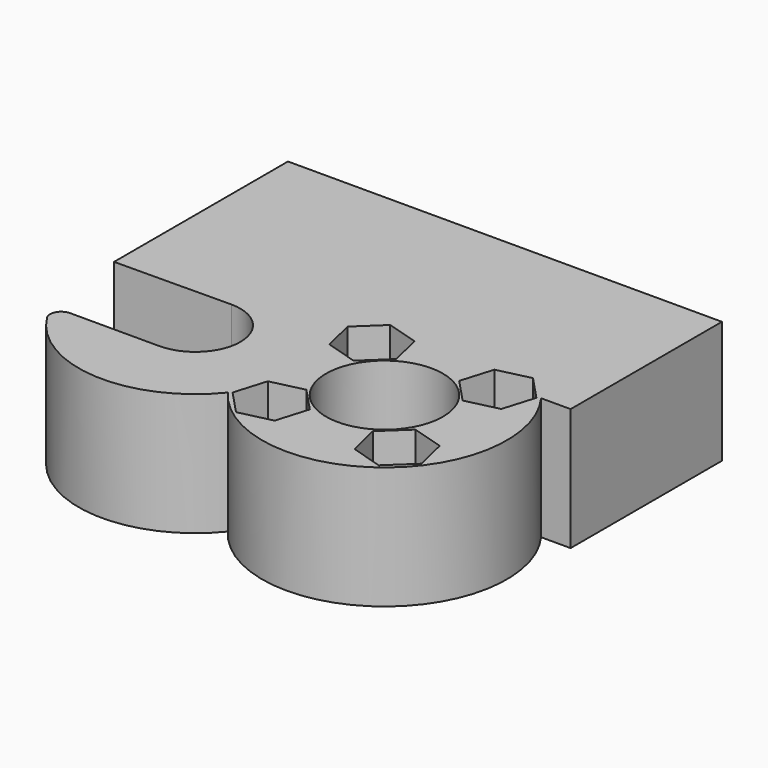
from build123d import *

# Parameters (mm, degrees)
F0_R     = 1.8
F0_R_2   = 5.25
F1_DEPTH = 8
F2_R     = 5.25
F3_DEPTH = 3


with BuildPart() as f1:
    # F0 (on Top) → F1 (new body)
    with BuildSketch(Plane.XY):
        with BuildLine():
            Line((26.1231140105, 19.538577646), (-12.8768859895, 19.538577646))
            Line((-12.8768859895, 19.538577646), (-12.8768859895, 0))
            Line((-12.8768859895, 0), (-2.4018859895, 0.088577646))
            ThreePointArc((-2.4018859895, 0.088577646), (1.6481140105, -3.961422354), (-2.4018859895, -8.011422354))
            Line((-2.4018859895, -8.011422354), (-10.4189381286, -8.011422354))
            ThreePointArc((-10.4189381286, -8.011422354), (-11.2944327118, -8.5281944214), (-11.2650650034, -9.5444038843))
            ThreePointArc((-11.2650650034, -9.5444038843), (-3.0003647918, -14.4193116307), (5.7665147457, -10.5190785227))
            ThreePointArc((5.7665147457, -10.5190785227), (21.1269767102, -12.8143287608), (23.4722336851, 2.538577646))
            Line((23.4722336851, 2.538577646), (26.1231140105, 2.538577646))
            Line((26.1231140105, 2.538577646), (26.1231140105, 19.538577646))
        make_face()
        with Locations((8.941259761, -9.6182766035)):
            Circle(F0_R, mode=Mode.SUBTRACT)
        with Locations((20.2549682599, -9.6182766035)):
            Circle(F0_R, mode=Mode.SUBTRACT)
        with Locations((14.5981140105, -3.961422354)):
            Circle(F0_R_2, mode=Mode.SUBTRACT)
        with Locations((8.941259761, 1.6954318955)):
            Circle(F0_R, mode=Mode.SUBTRACT)
        with Locations((20.2549682599, 1.6954318955)):
            Circle(F0_R, mode=Mode.SUBTRACT)
    extrude(amount=-F1_DEPTH)

    # F2 (on face) → F3 (join)
    with BuildSketch(Plane.XY):
        with BuildLine():
            Line((23.4722336851, 2.538577646), (26.1231140105, 2.538577646))
            Line((26.1231140105, 2.538577646), (26.1231140105, 19.538577646))
            Line((26.1231140105, 19.538577646), (-12.8768859895, 19.538577646))
            Line((-12.8768859895, 19.538577646), (-12.8768859895, 0))
            Line((-12.8768859895, 0), (-2.4018859895, 0.088577646))
            ThreePointArc((-2.4018859895, 0.088577646), (1.6481140105, -3.961422354), (-2.4018859895, -8.011422354))
            Line((-2.4018859895, -8.011422354), (-10.4189381286, -8.011422354))
            ThreePointArc((-10.4189381286, -8.011422354), (-11.2944327118, -8.5281944214), (-11.2650650034, -9.5444038843))
            ThreePointArc((-11.2650650034, -9.5444038843), (-3.0003647918, -14.4193116307), (5.7665147457, -10.5190785227))
            ThreePointArc((5.7665147457, -10.5190785227), (21.1269767102, -12.8143287608), (23.4722336851, 2.538577646))
        make_face()
        Polygon((10.9981298784, -11.8021459494), (8.0784084876, -12.4915130504), (6.0215383702, -10.3076437046), (6.8843896435, -7.4344072576), (9.8041110343, -6.7450401565), (11.8609811518, -8.9289095024), align=None, mode=Mode.SUBTRACT)
        Polygon((19.5656011589, -6.6985552127), (22.4388376058, -7.561406486), (23.1282047069, -10.4811278768), (20.944335361, -12.5379979943), (18.0710989141, -11.6751467209), (17.381731813, -8.7554253301), align=None, mode=Mode.SUBTRACT)
        with Locations((14.5981140105, -3.961422354)):
            Circle(F2_R, mode=Mode.SUBTRACT)
        Polygon((6.7573904151, -0.361438222), (6.068023314, 2.5582831689), (8.2518926599, 4.6151532863), (11.1251291068, 3.752302013), (11.8144962079, 0.8325806222), (9.630626862, -1.2242894953), align=None, mode=Mode.SUBTRACT)
        Polygon((18.1980981425, 3.8793012414), (21.1178195333, 4.5686683425), (23.1746896508, 2.3847989966), (22.3118383774, -0.4884374504), (19.3921169866, -1.1778045514), (17.3352468691, 1.0060647944), align=None, mode=Mode.SUBTRACT)
    extrude(amount=F3_DEPTH)


solid = f1.part
